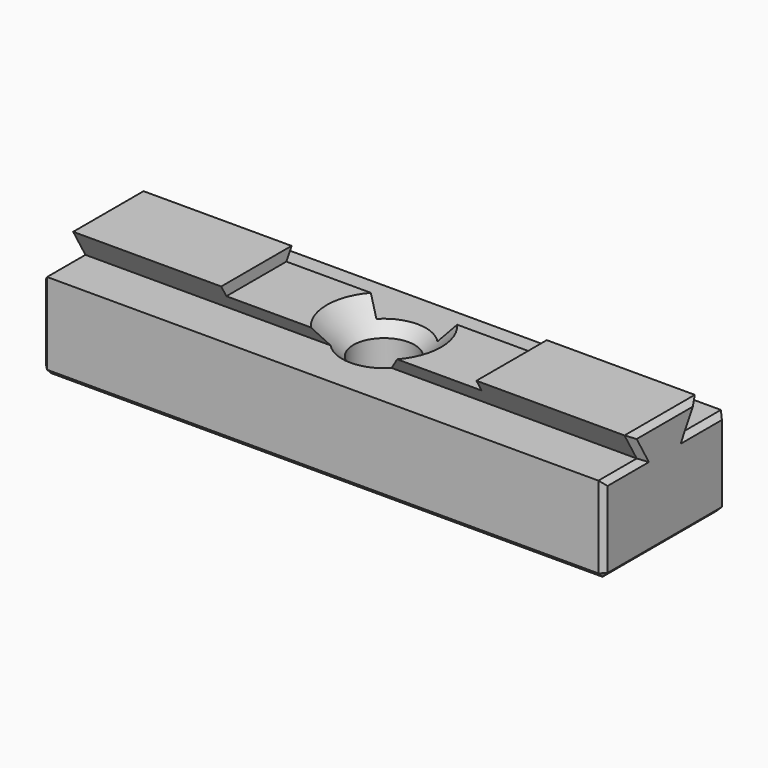
from build123d import *

# Parameters (mm, degrees)
PAD002_DEPTH        = 27.5
SKETCH005_W         = 1.1
SKETCH005_H         = 25
POCKET001_DEPTH     = 15.001
HOLE001_D           = 6
HOLE001_DEPTH       = 25
HOLE001_CSINK_D     = 11.2
HOLE001_CSINK_ANGLE = 90
CHAMFER_SIZE        = 0.5


with BuildPart() as part:
    # Sketch004 → Pad002 (new body, symmetric)
    with BuildSketch(Plane.YZ):
        Polygon((-7.5, 0), (7.5, 0), (7.5, 8.5), (2.806069, 8.5), (4.30718, 11.1), (-4.30718, 11.1), (-2.806069, 8.5), (-7.5, 8.5), align=None)
    extrude(amount=PAD002_DEPTH, both=True)

    # Sketch005 (on Face8 of Pad002) → Pocket001 (cut, through all)
    with BuildSketch(Plane(origin=(0, -7.5, 0), x_dir=(0, 0, -1), z_dir=(0, -1, 0))):
        with Locations((-10.55, 0)):
            Rectangle(SKETCH005_W, SKETCH005_H)
    extrude(amount=-POCKET001_DEPTH, mode=Mode.SUBTRACT)

    # Hole001
    with Locations(Plane(origin=(0, 0, 10), x_dir=(0, -1, 0), z_dir=(0, 0, 1))):
        with Locations((0, 0)):
            CounterSinkHole(HOLE001_D / 2, HOLE001_CSINK_D / 2, depth=HOLE001_DEPTH, counter_sink_angle=HOLE001_CSINK_ANGLE)

    # Chamfer
    chamfer_edges = [part.edges().sort_by_distance(p)[0] for p in [
        (27.5, 0, 0),
        (27.5, 7.5, 4.25),
        (27.5, 5.153034, 8.5),
        (27.5, 3.556624, 9.8),
        (27.5, 0, 11.1),
        (27.5, -3.556624, 9.8),
        (27.5, -5.153034, 8.5),
        (27.5, -7.5, 4.25),
        (0, -7.5, 0),
        (-27.5, 0, 0),
        (0, 7.5, 0),
        (0, -3, 0),
        (-27.5, 7.5, 4.25),
        (-27.5, 5.153034, 8.5),
        (-27.5, 3.556624, 9.8),
        (-27.5, 0, 11.1),
        (-27.5, -3.556624, 9.8),
        (-27.5, -5.153034, 8.5),
        (-27.5, -7.5, 4.25),
    ]]
    chamfer(chamfer_edges, length=CHAMFER_SIZE)


solid = part.part
